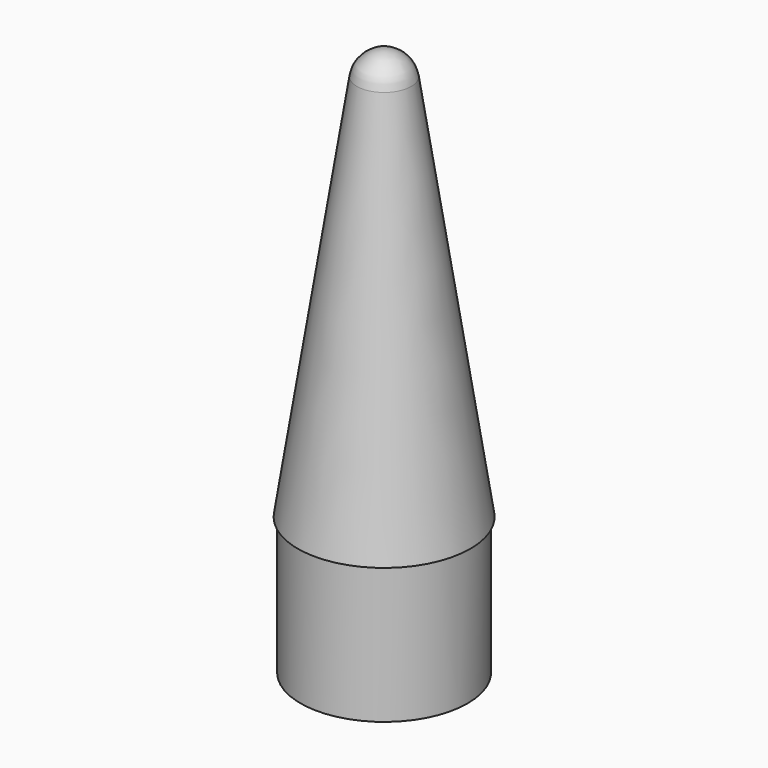
from build123d import *


with BuildPart() as f1:
    # F0 (on Front) → F1 (revolve)
    with BuildSketch(Plane.XZ):
        with BuildLine():
            Line((0, 190), (0, 0))
            Line((0, 0), (30.5, 0))
            Line((30.5, 0), (30.5, 50))
            Line((30.5, 50), (31.5, 50))
            Line((31.5, 50), (9.88535, 191.509918))
            ThreePointArc((9.88535, 191.509918), (6.515398, 197.586145), (0, 200))
            Line((0, 200), (0, 190))
        make_face()
        with BuildLine():
            Line((7.90828, 191.207934), (29.171318, 52))
            Line((29.171318, 52), (28.5, 52))
            Line((28.5, 52), (28.5, 2))
            Line((28.5, 2), (2, 2))
            Line((2, 2), (2, 197.745967))
            ThreePointArc((2, 197.745967), (5.935484, 195.36377), (7.90828, 191.207934))
        make_face(mode=Mode.SUBTRACT)
    revolve(axis=Axis((0, 0, 100), (0, 0, 1)))


solid = f1.part
